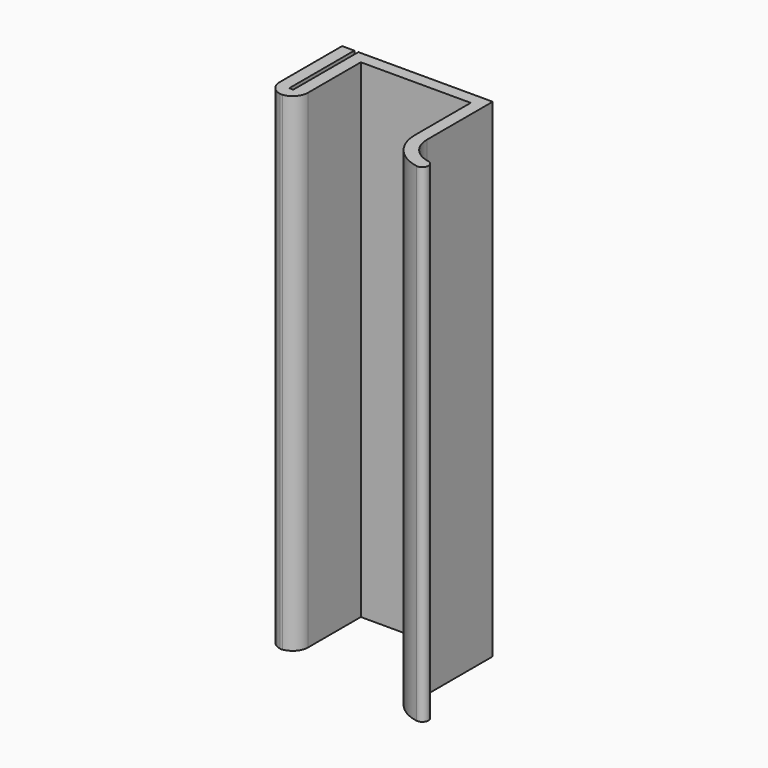
from build123d import *

# Parameters (mm, degrees)
F1_DEPTH = 120


with BuildPart() as f1:
    # F0 (on Top) → F1 (new body)
    with BuildSketch(Plane.XY):
        with BuildLine():
            ThreePointArc((-0.19, -3), (-0.345129, -2.996841), (-0.5, -2.987368))
            ThreePointArc((-0.5, -2.987368), (-0.654871, -2.996841), (-0.81, -3))
            Line((-0.81, -3), (-0.19, -3))
        make_face()
        with BuildLine():
            Line((-1, 0), (-1, 20))
            Line((-1, 20), (-4, 20))
            Line((-4, 20), (-4, 0.81))
            ThreePointArc((-4, 0.81), (-2.991535, -1.77215), (-0.5, -2.987368))
            ThreePointArc((-0.5, -2.987368), (1.991535, -1.77215), (3, 0.81))
            Line((3, 0.81), (3, 17))
            Line((3, 17), (30, 17))
            Line((30, 17), (30, -0.1334))
            ThreePointArc((30, -0.1334), (32.33035, -6.550289), (38.235294, -9.976459))
            ThreePointArc((38.235294, -9.976459), (39.976459, -8.764706), (38.764706, -7.023541))
            ThreePointArc((38.764706, -7.023541), (34.631245, -4.625222), (33, -0.1334))
            Line((33, -0.1334), (33, 20))
            Line((33, 20), (0, 20))
            Line((0, 20), (0, 0))
            Line((0, 0), (-1, 0))
        make_face()
    extrude(amount=F1_DEPTH)


solid = f1.part
